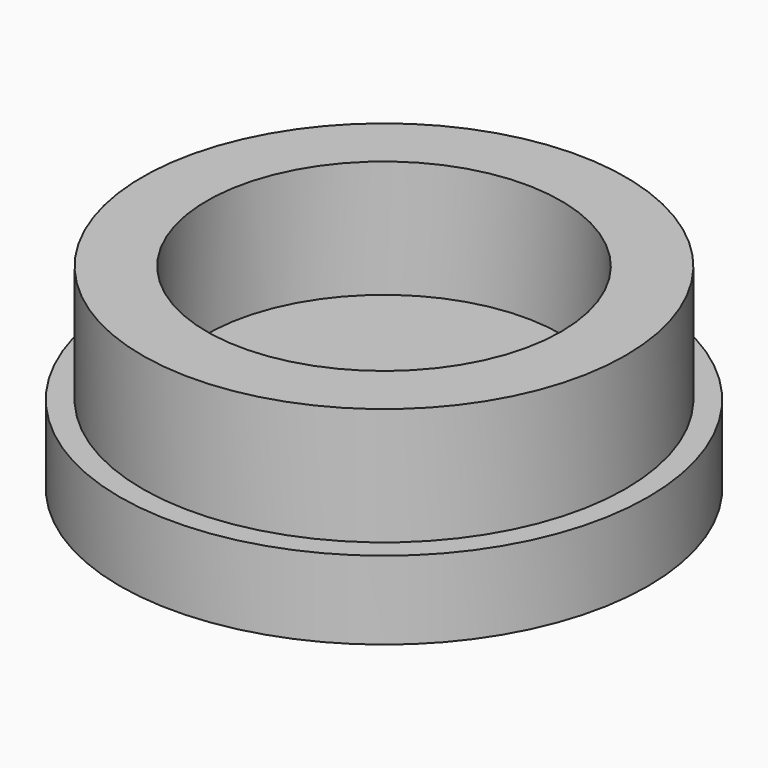
from build123d import *

# Parameters (mm, degrees)
F0_R     = 15.6845
F0_R_2   = 11.499076
F1_DEPTH = 12.7
F2_R     = 17.145
F3_DEPTH = 5.08
F5_D     = 0.254


with BuildPart() as f1:
    # F0 (on Top) → F1 (new body)
    with BuildSketch(Plane.XY):
        Circle(F0_R)
        Circle(F0_R_2, mode=Mode.SUBTRACT)
    extrude(amount=F1_DEPTH)

    # F2 (on Top) → F3 (join)
    with BuildSketch(Plane.XY):
        Circle(F2_R)
    extrude(amount=F3_DEPTH)

    # F5 (through all)
    with Locations(Plane.XY.offset(5.08)):
        with Locations((0, 0)):
            Hole(F5_D / 2)


solid = f1.part
